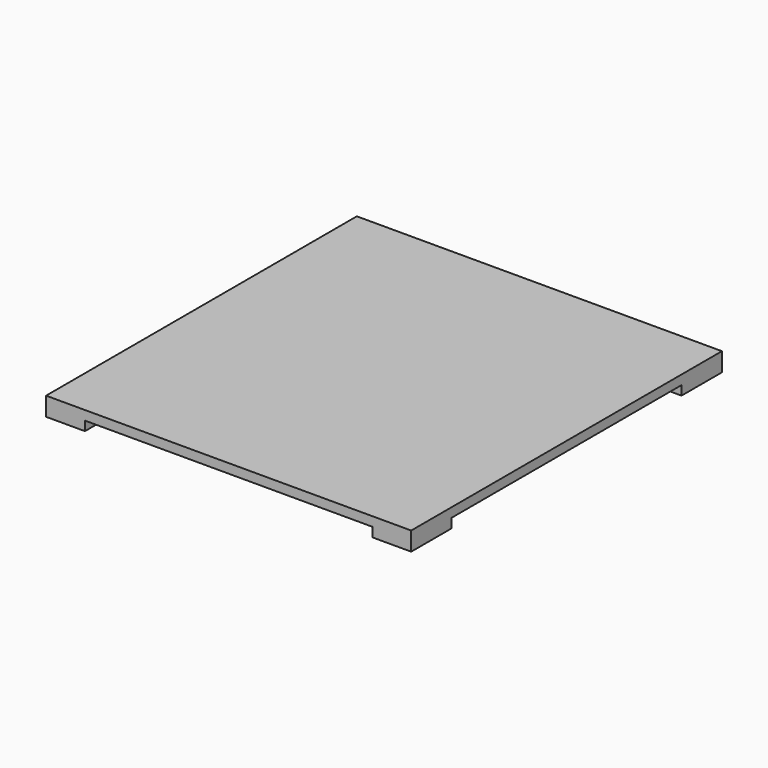
from build123d import *

# Parameters (mm, degrees)
F0_W     = 470
F0_H     = 500
F1_DEPTH = 12
F2_W     = 50
F2_H     = 65
F3_DEPTH = 12


with BuildPart() as f1:
    # F0 (on Top) → F1 (new body)
    with BuildSketch(Plane.XY):
        with Locations((-29.017386, -4.812101)):
            Rectangle(F0_W, F0_H)
    extrude(amount=-F1_DEPTH)

    # F2 (on face) → F3 (join)
    with BuildSketch(Plane(origin=(0, 0, -12), x_dir=(1, 0, 0), z_dir=(0, 0, -1))):
        with Locations((180.982614, -212.687899)):
            Rectangle(F2_W, F2_H)
        with Locations((-239.017386, -212.687899)):
            Rectangle(F2_W, F2_H)
        with Locations((-239.017386, 222.312101)):
            Rectangle(F2_W, F2_H)
        with Locations((180.982614, 222.312101)):
            Rectangle(F2_W, F2_H)
    extrude(amount=F3_DEPTH)


solid = f1.part
